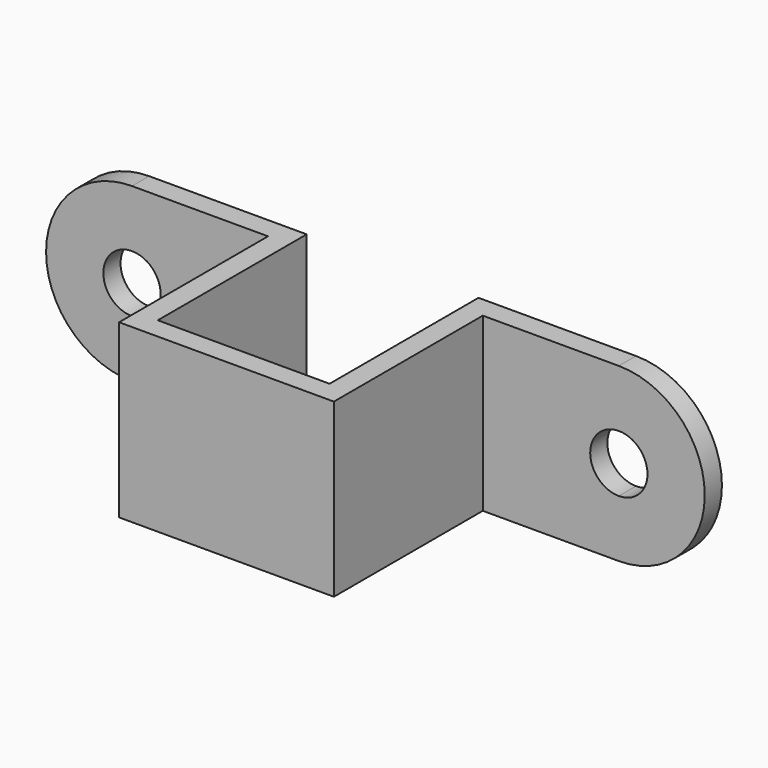
from build123d import *

# Parameters (mm, degrees)
F1_DEPTH      = 19.05
F1_DEPTH_BACK = 19.05
F3_D          = 12.7
F2_R          = 19.05
F2_R_2        = 6.35
F4_DEPTH      = 4.7625


with BuildPart() as f1:
    # F0 (on Top) → F1 (new body, two sides)
    with BuildSketch(Plane.XY) as f1_sk:
        Polygon((-19.05, -41.275), (-19.05, 0), (-53.975, 0), (-53.975, -4.7625), (-23.8125, -4.7625), (-23.8125, -46.0375), (23.8125, -46.0375), (23.8125, -4.7625), (53.975, -4.7625), (53.975, 0), (19.05, 0), (19.05, -41.275), align=None)
    extrude(amount=F1_DEPTH)
    extrude(f1_sk.sketch, amount=-F1_DEPTH_BACK)

    # F3 (through all)
    with Locations(Plane(origin=(0, 0, 0), x_dir=(1, 0, 0), z_dir=(0, 1, 0))):
        with Locations((-53.975, 0), (53.975, 0)):
            Hole(F3_D / 2)

    # F2 (on Front) → F4 (join)
    with BuildSketch(Plane.XZ):
        with Locations((-53.975, 0)):
            Circle(F2_R)
        with Locations((-53.975, 0)):
            Circle(F2_R_2, mode=Mode.SUBTRACT)
        with Locations((53.975, 0)):
            Circle(F2_R)
        with Locations((53.975, 0)):
            Circle(F2_R_2, mode=Mode.SUBTRACT)
    extrude(amount=F4_DEPTH)


solid = f1.part
